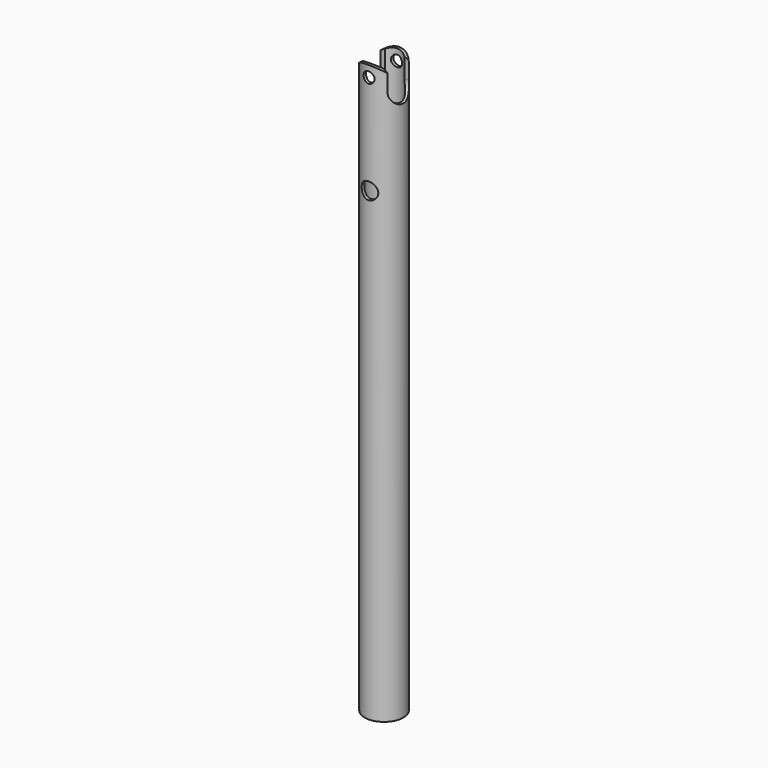
from build123d import *

# Parameters (mm, degrees)
F0_R      = 11.1125
F0_R_2    = 9.4615
F1_DEPTH  = 228.6
F2_R      = 3.175
F3_DEPTH  = 12.7
F4_DEPTH  = 12.7
F5_DEPTH  = 25.4
F7_DEPTH  = 12.7
F8_DEPTH  = 12.7
F9_R      = 11.1125
F9_R_2    = 9.4615
F10_DEPTH = 88.9
F13_DEPTH = 25.4
F14_R     = 9.4615
F15_DEPTH = 87.884


with BuildPart() as f1:
    # F0 (on Top) → F1 (new body)
    with BuildSketch(Plane.XY):
        Circle(F0_R)
        Circle(F0_R_2, mode=Mode.SUBTRACT)
    extrude(amount=F1_DEPTH)

    # F2 (on Front) → F3 (join)
    with BuildSketch(Plane.XZ):
        with BuildLine():
            Line((-12.7, 228.6), (12.7, 228.6))
            ThreePointArc((12.7, 228.6), (0, 241.3), (-12.7, 228.6))
        make_face()
        with Locations((0, 234.95)):
            Circle(F2_R, mode=Mode.SUBTRACT)
    extrude(amount=-F3_DEPTH)

    # F4 (add): a face of the model
    f4_faces = [f1.faces().sort_by_distance(p)[0] for p in [
        (0, 0, 241.0160193669),
    ]]
    extrude(f4_faces, amount=F4_DEPTH)

    # F5 (cut): faces of the model
    f5_faces = [f1.faces().sort_by_distance(p)[0] for p in [
        (0, 0, 228.6),
        (-11.4717102448, 0, 228.6),
        (-11.4717102448, 0, 228.6),
        (0, 0, 228.6),
    ]]
    extrude(f5_faces, amount=-F5_DEPTH, mode=Mode.SUBTRACT)

    # F6 (on Right) → F7 (cut)
    with BuildSketch(Plane.YZ):
        with BuildLine():
            Line((7.62, 228.6), (0, 228.6))
            Line((0, 228.6), (-7.62, 228.6))
            ThreePointArc((-7.62, 228.6), (0, 220.98), (7.62, 228.6))
        make_face()
        with BuildLine():
            Line((-7.62, 228.6), (0, 228.6))
            Line((0, 228.6), (7.62, 228.6))
            ThreePointArc((7.62, 228.6), (0, 236.22), (-7.62, 228.6))
        make_face()
        with BuildLine():
            Line((-7.62, 246.1920827627), (-7.62, 228.6))
            ThreePointArc((-7.62, 228.6), (0, 236.22), (7.62, 228.6))
            Line((7.62, 228.6), (7.62, 246.1920827627))
            Line((7.62, 246.1920827627), (-7.62, 246.1920827627))
        make_face()
    extrude(amount=-F7_DEPTH, mode=Mode.SUBTRACT)

    # F6 (on Right) → F8 (cut)
    with BuildSketch(Plane.YZ):
        with BuildLine():
            Line((7.62, 228.6), (0, 228.6))
            Line((0, 228.6), (-7.62, 228.6))
            ThreePointArc((-7.62, 228.6), (0, 220.98), (7.62, 228.6))
        make_face()
        with BuildLine():
            Line((-7.62, 228.6), (0, 228.6))
            Line((0, 228.6), (7.62, 228.6))
            ThreePointArc((7.62, 228.6), (0, 236.22), (-7.62, 228.6))
        make_face()
        with BuildLine():
            Line((-7.62, 246.1920827627), (-7.62, 228.6))
            ThreePointArc((-7.62, 228.6), (0, 236.22), (7.62, 228.6))
            Line((7.62, 228.6), (7.62, 246.1920827627))
            Line((7.62, 246.1920827627), (-7.62, 246.1920827627))
        make_face()
    extrude(amount=F8_DEPTH, mode=Mode.SUBTRACT)

    # F9 (on face) → F10 (join)
    with BuildSketch(Plane.XY):
        Circle(F9_R)
        Circle(F9_R_2, mode=Mode.SUBTRACT)
    extrude(amount=-F10_DEPTH)

    # F12 (on Front) → F13 (cut, symmetric)
    with BuildSketch(Plane.XZ):
        with BuildLine():
            ThreePointArc((0, 173.0375), (3.3675960454, 174.4324039546), (4.7625, 177.8))
            ThreePointArc((4.7625, 177.8), (-3.3675960454, 181.1675960454), (0, 173.0375))
        make_face()
    extrude(amount=F13_DEPTH, both=True, mode=Mode.SUBTRACT)

    # F14 (on offset) → F15 (cut)
    with BuildSketch(Plane.XY.offset(177.8)):
        Circle(F14_R)
    extrude(amount=F15_DEPTH, mode=Mode.SUBTRACT)


solid = f1.part
